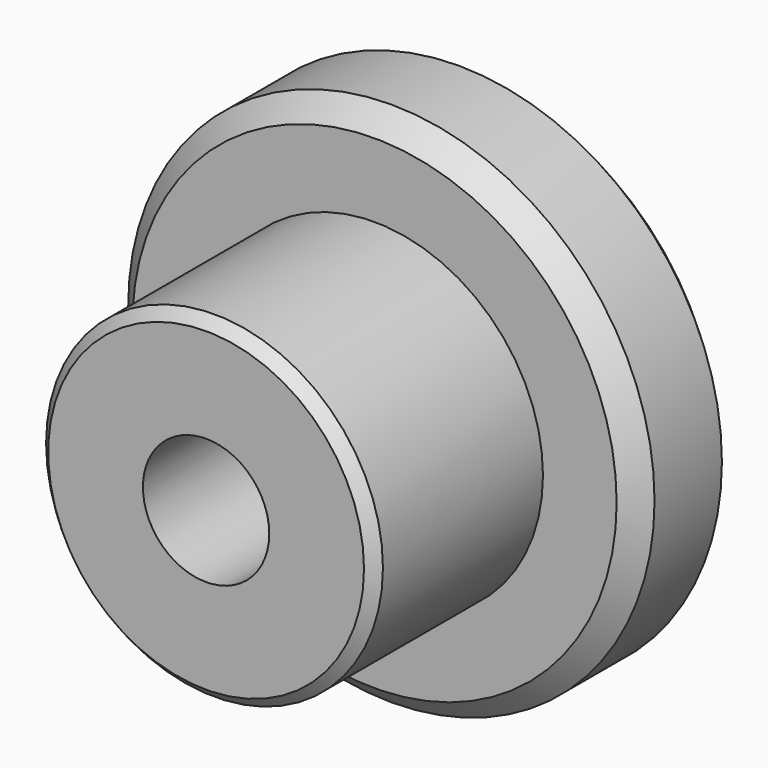
from build123d import *

# Parameters (mm, degrees)
F0_R     = 12.5
F1_DEPTH = 6
F2_R     = 8
F3_DEPTH = 10
F4_R     = 3
F5_DEPTH = 25
F6_SIZE  = 1
F7_SIZE  = 0.5


with BuildPart() as f1:
    # F0 (on Front) → F1 (new body)
    with BuildSketch(Plane.XZ):
        Circle(F0_R)
    extrude(amount=F1_DEPTH)

    # F2 (on face) → F3 (join)
    with BuildSketch(Plane.XZ.offset(6)):
        Circle(F2_R)
    extrude(amount=F3_DEPTH)

    # F4 (on face) → F5 (cut)
    with BuildSketch(Plane.XZ.offset(16)):
        Circle(F4_R)
    extrude(amount=-F5_DEPTH, mode=Mode.SUBTRACT)

    # F6
    f6_edges = [f1.edges().sort_by_distance(p)[0] for p in [
        (-12.5, -6, 0),
        (-12.5, 0, 0),
    ]]
    chamfer(f6_edges, length=F6_SIZE)

    # F7
    f7_edges = [f1.edges().sort_by_distance(p)[0] for p in [
        (-8, -16, 0),
    ]]
    chamfer(f7_edges, length=F7_SIZE)


solid = f1.part
